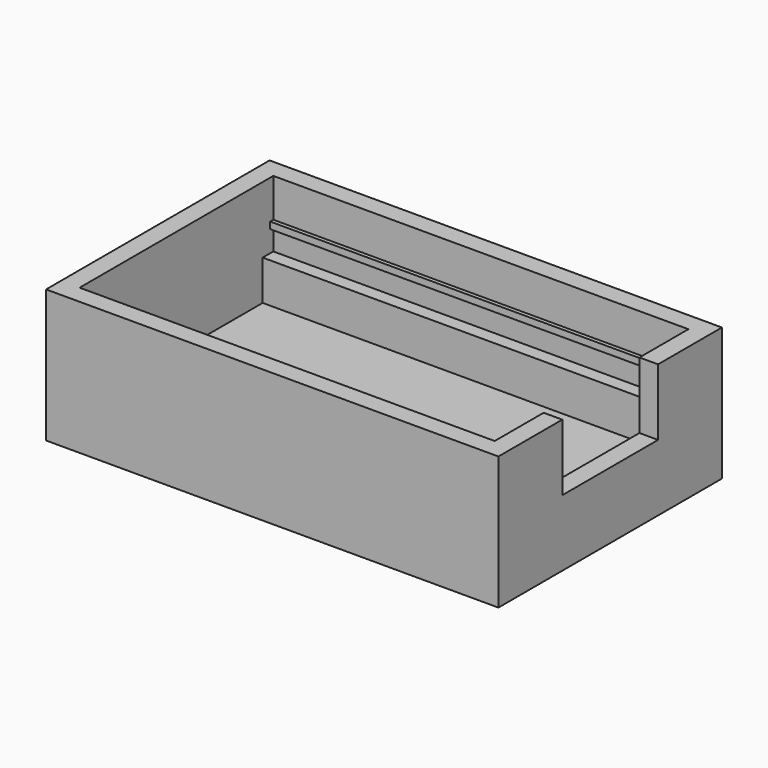
from build123d import *

# Parameters (mm, degrees)
SKETCH_W        = 34
SKETCH_H        = 21
PAD_DEPTH       = 10
SKETCH001_W     = 31.2
SKETCH001_H     = 18.2
POCKET_DEPTH    = 8
SKETCH002_W     = 31.192015
SKETCH002_H     = 1
PAD001_DEPTH    = 3
SKETCH003_W     = 31.192015
SKETCH003_H     = 1
PAD002_DEPTH    = 3
SKETCH004_W     = 9
SKETCH004_H     = 5
POCKET001_DEPTH = 5
SKETCH005_W     = 31.192015
SKETCH005_H     = 0.5
PAD003_DEPTH    = 0.3
SKETCH006_W     = 31.116258
SKETCH006_H     = 0.5
PAD004_DEPTH    = 0.3
SKETCH007_R     = 1.75
POCKET002_DEPTH = 5


with BuildPart() as part:
    # Sketch → Pad (new body)
    with BuildSketch(Plane.XY):
        with Locations((0, 10.5)):
            Rectangle(SKETCH_W, SKETCH_H)
    extrude(amount=PAD_DEPTH)

    # Sketch001 (on Face6 of Pad) → Pocket (cut)
    with BuildSketch(Plane.XY.offset(10)):
        with Locations((0, 10.5)):
            Rectangle(SKETCH001_W, SKETCH001_H)
    extrude(amount=-POCKET_DEPTH, mode=Mode.SUBTRACT)

    # Sketch002 (on Face11 of Pocket) → Pad001 (join)
    with BuildSketch(Plane.XY.offset(2)):
        with Locations((-0.0039925, 19.1)):
            Rectangle(SKETCH002_W, SKETCH002_H)
    extrude(amount=PAD001_DEPTH)

    # Sketch003 (on Face13 of Pad001) → Pad002 (join)
    with BuildSketch(Plane.XY.offset(2)):
        with Locations((-0.0797495, 1.931894)):
            Rectangle(SKETCH003_W, SKETCH003_H)
    extrude(amount=PAD002_DEPTH)

    # Sketch004 (on Face3 of Pad002) → Pocket001 (cut)
    with BuildSketch(Plane.YZ.offset(17)):
        with Locations((10.5, 7.5)):
            Rectangle(SKETCH004_W, SKETCH004_H)
    extrude(amount=-POCKET001_DEPTH, mode=Mode.SUBTRACT)

    # Sketch005 (on Face11 of Pocket001) → Pad003 (join)
    with BuildSketch(Plane.XZ.offset(-19.6)):
        with Locations((-0.0039925, 6.85)):
            Rectangle(SKETCH005_W, SKETCH005_H)
    extrude(amount=PAD003_DEPTH)

    # Sketch006 (on Face13 of Pad003) → Pad004 (join)
    with BuildSketch(Plane(origin=(0, 1.4, 0), x_dir=(-1, 0, 0), z_dir=(0, 1, 0))):
        with Locations((0.041871, 6.85)):
            Rectangle(SKETCH006_W, SKETCH006_H)
    extrude(amount=PAD004_DEPTH)

    # Sketch007 (on Face14 of Pad004) → Pocket002 (cut)
    with BuildSketch(Plane.XY.offset(2)):
        with Locations((-9.6637815806, 10.781894)):
            Circle(SKETCH007_R)
        with Locations((10.3362184194, 10.781894)):
            Circle(SKETCH007_R)
    extrude(amount=-POCKET002_DEPTH, mode=Mode.SUBTRACT)


solid = part.part
